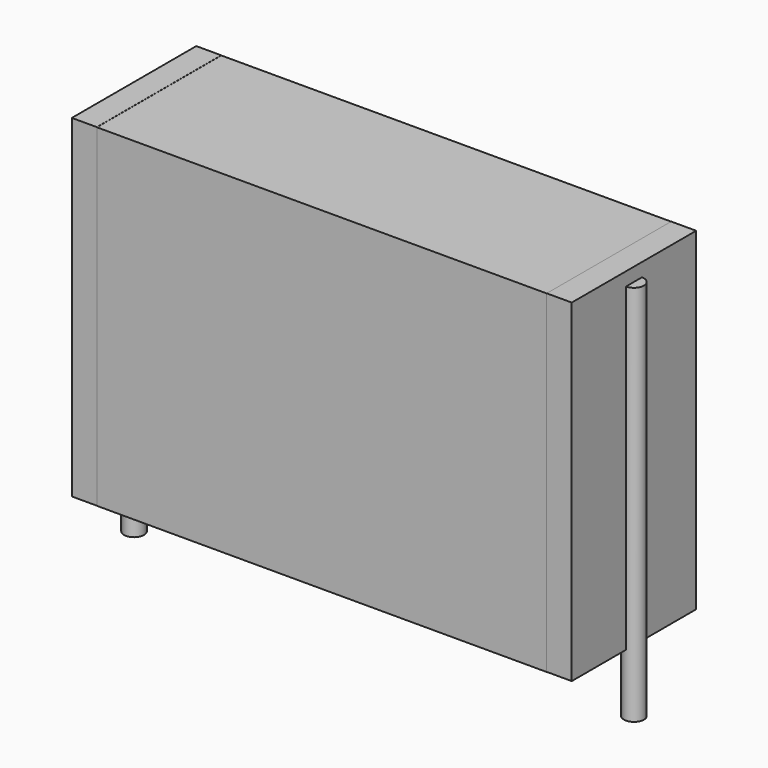
from build123d import *

# Parameters (mm, degrees)
SKETCH_W          = 20.25
SKETCH_H          = 7
PAD_DEPTH         = 15
SKETCH001_R       = 0.45
PAD001_DEPTH      = 14
PAD001_DEPTH_BACK = 3.2
SKETCH002_W       = 1.125
SKETCH002_H       = 7
PAD002_DEPTH      = 15


with BuildPart() as pad:
    # Sketch → Pad (new body)
    with BuildSketch(Plane.XY.offset(0.1)):
        with Locations((11.25, 0)):
            Rectangle(SKETCH_W, SKETCH_H)
    extrude(amount=PAD_DEPTH)


with BuildPart() as pad001:
    # Sketch001 → Pad001 (new body, two sides)
    with BuildSketch(Plane.XY.offset(0.5)) as pad001_sk:
        Circle(SKETCH001_R)
        with Locations((22.5, 0)):
            Circle(SKETCH001_R)
    extrude(amount=PAD001_DEPTH)
    extrude(pad001_sk.sketch, amount=-PAD001_DEPTH_BACK)


with BuildPart() as pad002:
    # Sketch002 → Pad002 (new body)
    with BuildSketch(Plane.XY.offset(0.105)):
        with Locations((0.5625, 0)):
            Rectangle(SKETCH002_W, SKETCH002_H)
        with Locations((21.9375, 0)):
            Rectangle(SKETCH002_W, SKETCH002_H)
    extrude(amount=PAD002_DEPTH)


solid = Compound([pad.part, pad001.part, pad002.part])
